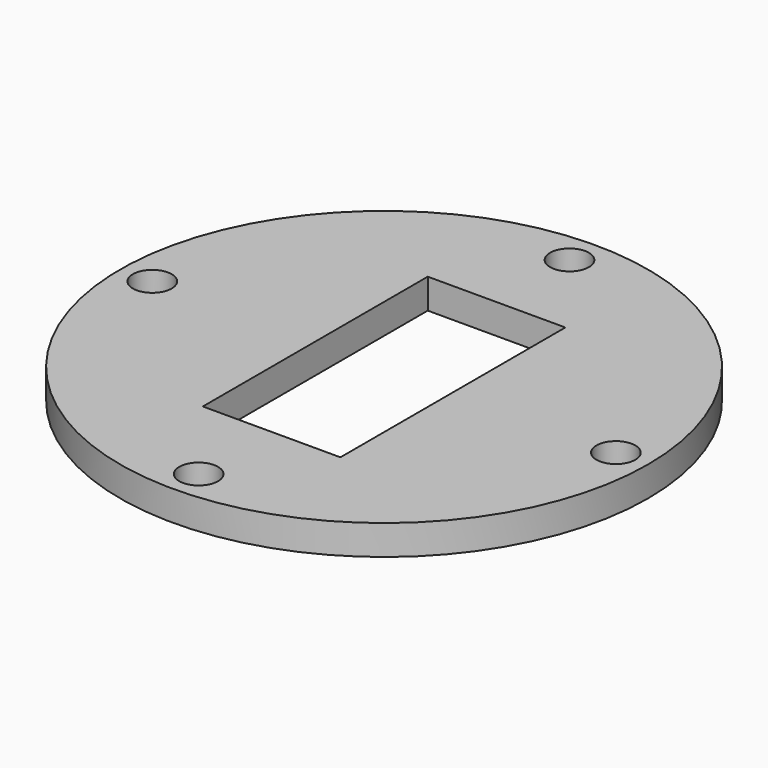
from build123d import *

# Parameters (mm, degrees)
F0_R     = 17.65
F0_R_2   = 1.3
F0_W     = 9.2
F0_H     = 18.8
F1_DEPTH = 2


with BuildPart() as f1:
    # F0 (on Top) → F1 (new body)
    with BuildSketch(Plane.XY):
        Circle(F0_R)
        with Locations((0, -15.5)):
            Circle(F0_R_2, mode=Mode.SUBTRACT)
        with Locations((-15.5, 0)):
            Circle(F0_R_2, mode=Mode.SUBTRACT)
        Rectangle(F0_W, F0_H, mode=Mode.SUBTRACT)
        with Locations((15.5, 0)):
            Circle(F0_R_2, mode=Mode.SUBTRACT)
        with Locations((0, 15.5)):
            Circle(F0_R_2, mode=Mode.SUBTRACT)
    extrude(amount=F1_DEPTH)


solid = f1.part
